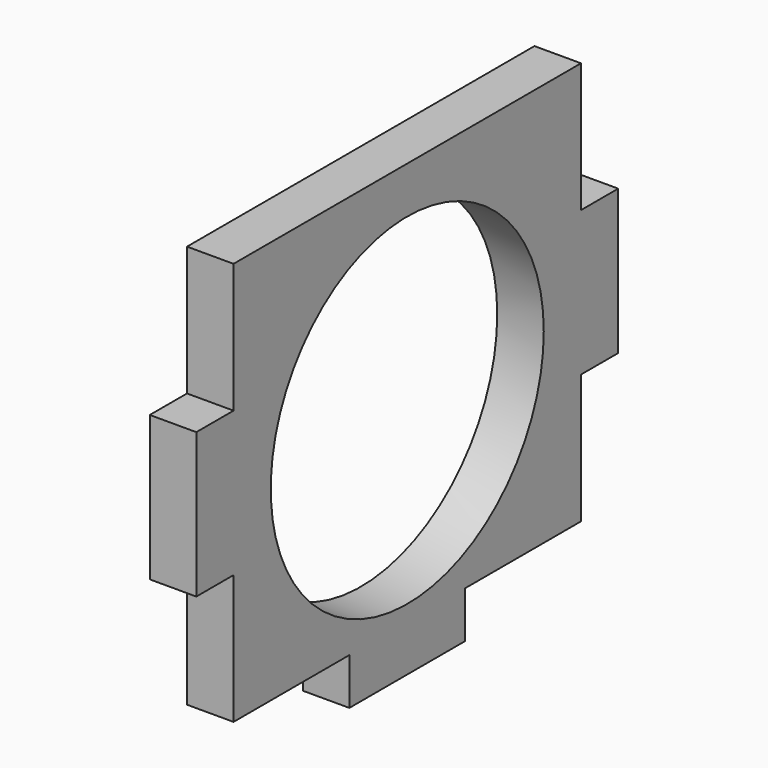
from build123d import *

# Parameters (mm, degrees)
F0_R     = 69.85
F1_DEPTH = 19.05


with BuildPart() as f1:
    # F0 (on Right) → F1 (new body)
    with BuildSketch(Plane.YZ):
        Polygon((88.9, 82.55), (-88.9, 82.55), (-88.9, 29.633418), (-107.95, 29.633418), (-107.95, 0), (-107.95, -29.633418), (-88.9, -29.633418), (-88.9, -82.55), (-29.633418, -82.55), (-29.633418, -101.6), (0, -101.6), (29.633418, -101.6), (29.633418, -82.55), (88.9, -82.55), (88.9, -29.633418), (107.95, -29.633418), (107.95, 0), (107.95, 29.633418), (88.9, 29.633418), align=None)
        with Locations((0, -6.35)):
            Circle(F0_R, mode=Mode.SUBTRACT)
    extrude(amount=F1_DEPTH)


solid = f1.part
